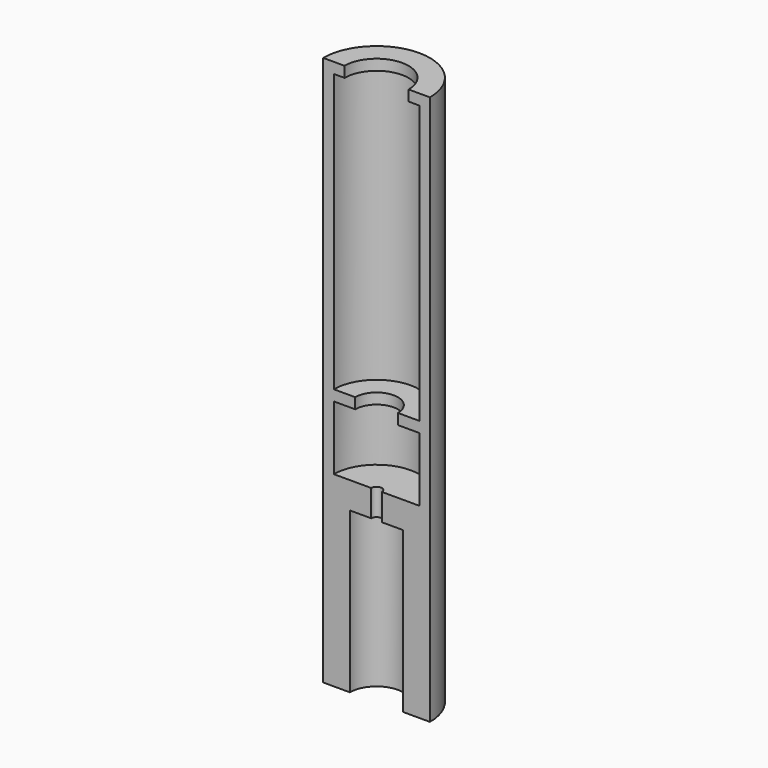
from build123d import *

# Parameters (mm, degrees)
F1_ANGLE = 180


with BuildPart() as f1:
    # F0 (on Front) → F1 (revolve)
    with BuildSketch(Plane.XZ):
        Polygon((-4, 50.5), (-3, 50.5), (-3, 51.5), (-5, 51.5), (-5, 0), (-2.5, 0), (-2.5, 15), (-0.5, 15), (-0.5, 17.5), (-4, 17.5), (-4, 23.5), (-2, 23.5), (-2, 24.5), (-4, 24.5), align=None)
    revolve(axis=Axis((0, 0, 15), (0, 0, -1)), revolution_arc=F1_ANGLE)


solid = f1.part
